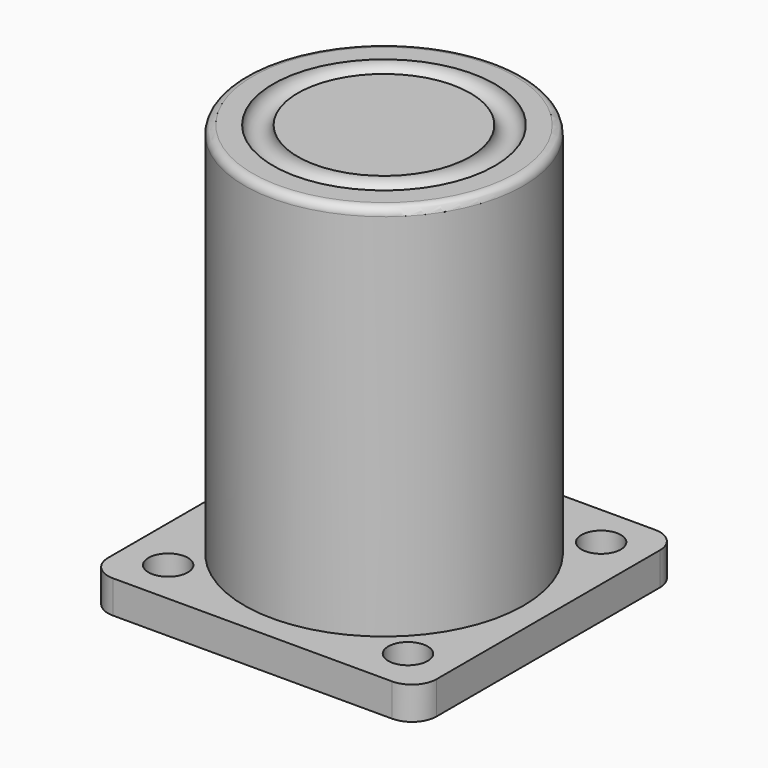
from build123d import *

# Parameters (mm, degrees)
TORUS_R           = 1.5
CYLINDER004_R     = 17
CYLINDER004_DEPTH = 50
FILLET001_R       = 1
CYLINDER002_R     = 2.4
CYLINDER002_DEPTH = 10
CYLINDER001_R     = 2.4
CYLINDER001_DEPTH = 10
CYLINDER_R        = 2.4
CYLINDER_DEPTH    = 10
CYLINDER003_R     = 2.4
CYLINDER003_DEPTH = 10
BOX_W             = 40
BOX_H             = 40
BOX_DEPTH         = 4
FILLET_R          = 3


with BuildPart() as torus:
    # Torus → Torus (revolve)
    with BuildSketch(Plane(origin=(20, 20, 50), x_dir=(1, 0, 0), z_dir=(0, -1, 0))):
        with Locations((12, 0)):
            Circle(TORUS_R)
    revolve(axis=Axis((20, 20, 50), (0, 0, 1)))


with BuildPart() as fillet001:
    # Cylinder004 → Cylinder004 (new body)
    with BuildSketch(Plane(origin=(20, 20, 0), x_dir=(1, 0, 0), z_dir=(0, 0, 1))):
        Circle(CYLINDER004_R)
    extrude(amount=CYLINDER004_DEPTH)

    # Fillet001
    fillet001_edges = [fillet001.edges().sort_by_distance(p)[0] for p in [
        (3, 20, 50),
    ]]
    fillet(fillet001_edges, radius=FILLET001_R)


with BuildPart() as cilindre002:
    # Cylinder002 → Cylinder002 (new body)
    with BuildSketch(Plane(origin=(5.4, 5.4, 0), x_dir=(1, 0, 0), z_dir=(0, 0, 1))):
        Circle(CYLINDER002_R)
    extrude(amount=CYLINDER002_DEPTH)


with BuildPart() as cilindre001:
    # Cylinder001 → Cylinder001 (new body)
    with BuildSketch(Plane(origin=(5.4, 34.6, 0), x_dir=(1, 0, 0), z_dir=(0, 0, 1))):
        Circle(CYLINDER001_R)
    extrude(amount=CYLINDER001_DEPTH)


with BuildPart() as fusion:
    # Cylinder → Cylinder (new body)
    with BuildSketch(Plane(origin=(34.6, 34.8, 0), x_dir=(1, 0, 0), z_dir=(0, 0, 1))):
        Circle(CYLINDER_R)
    extrude(amount=CYLINDER_DEPTH)

    # Fusion: union Cilindre001
    add(cilindre001.part)


with BuildPart() as fusion001:
    # Cylinder003 → Cylinder003 (new body)
    with BuildSketch(Plane(origin=(34.6, 5.4, 0), x_dir=(1, 0, 0), z_dir=(0, 0, 1))):
        Circle(CYLINDER003_R)
    extrude(amount=CYLINDER003_DEPTH)

    # Fusion001: union Fusion
    add(fusion.part)


with BuildPart() as cut002:
    # Box → Box (new body)
    with BuildSketch(Plane.XY):
        with Locations((20, 20)):
            Rectangle(BOX_W, BOX_H)
    extrude(amount=BOX_DEPTH)

    # Cut: cut Fusion001
    add(fusion001.part, mode=Mode.SUBTRACT)

    # Cut001: cut Cilindre002
    add(cilindre002.part, mode=Mode.SUBTRACT)

    # Fillet
    fillet_edges = [cut002.edges().sort_by_distance(p)[0] for p in [
        (0, 0, 2),
        (0, 40, 2),
        (40, 0, 2),
        (40, 40, 2),
    ]]
    fillet(fillet_edges, radius=FILLET_R)

    # Fusion002: union Fillet001
    add(fillet001.part)

    # Cut002: cut Torus
    add(torus.part, mode=Mode.SUBTRACT)


solid = cut002.part
